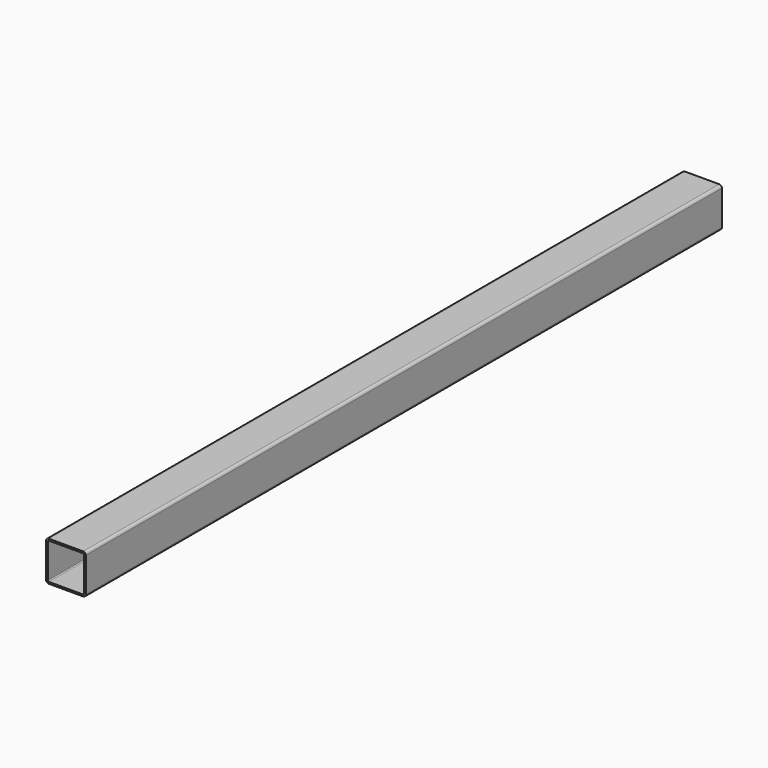
from build123d import *

# Parameters (mm, degrees)
F1_DEPTH = 1800


with BuildPart() as f1:
    # F0 (on Front) → F1 (new body)
    with BuildSketch(Plane.XZ):
        with BuildLine():
            ThreePointArc((45, 39), (43.242641, 43.242641), (39, 45))
            Line((39, 45), (-39, 45))
            ThreePointArc((-39, 45), (-43.242641, 43.242641), (-45, 39))
            Line((-45, 39), (-45, -39))
            ThreePointArc((-45, -39), (-43.242641, -43.242641), (-39, -45))
            Line((-39, -45), (39, -45))
            ThreePointArc((39, -45), (43.242641, -43.242641), (45, -39))
            Line((45, -39), (45, 39))
        make_face()
        with BuildLine():
            ThreePointArc((-41, 39), (-40.414214, 40.414214), (-39, 41))
            Line((-39, 41), (39, 41))
            ThreePointArc((39, 41), (40.414214, 40.414214), (41, 39))
            Line((41, 39), (41, -39))
            ThreePointArc((41, -39), (40.414214, -40.414214), (39, -41))
            Line((39, -41), (-39, -41))
            ThreePointArc((-39, -41), (-40.414214, -40.414214), (-41, -39))
            Line((-41, -39), (-41, 39))
        make_face(mode=Mode.SUBTRACT)
    extrude(amount=-F1_DEPTH)


solid = f1.part
